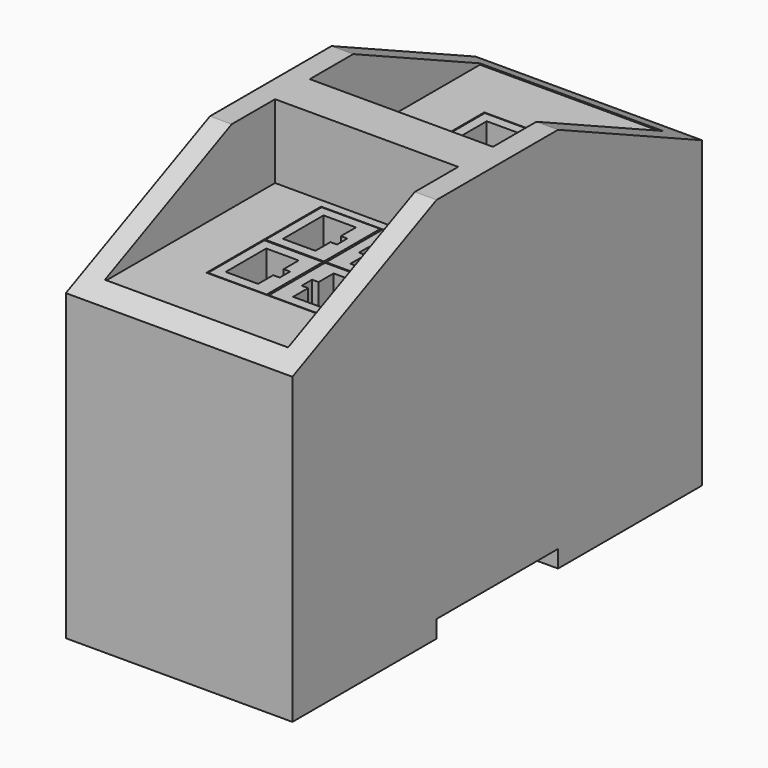
from build123d import *

# Parameters (mm, degrees)
F1_DEPTH = 26.1
F2_W     = 42.2
F2_H     = 49
F3_DEPTH = 17
F4_W     = 28
F4_H     = 33
F5_DEPTH = 25
F6_W     = 13.5
F6_H     = 16.2
F7_DEPTH = 25
F9_DEPTH = 12.32


with BuildPart() as f1:
    # F0 (on Right) → F1 (new body, symmetric)
    with BuildSketch(Plane.YZ):
        Polygon((-59, 66), (-59, -4), (-17.5, -4), (-17.5, 0), (17.5, 0), (17.5, -4), (59, -4), (59, 66), (17.5, 85), (-17.5, 85), align=None)
    extrude(amount=F1_DEPTH, both=True)

    # F2 (on face) → F3 (cut)
    with BuildSketch(Plane.XY.offset(85)):
        with Locations((0, -29.5)):
            Rectangle(F2_W, F2_H)
        with Locations((0, 29.5)):
            Rectangle(F2_W, F2_H)
    extrude(amount=-F3_DEPTH, mode=Mode.SUBTRACT)

    # F4 (on face) → F5 (cut)
    with BuildSketch(Plane.XY.offset(68)):
        with Locations((5.1, -23.5)):
            Rectangle(F4_W, F4_H)
        with Locations((5.1, 23.5)):
            Rectangle(F4_W, F4_H)
    extrude(amount=-F5_DEPTH, mode=Mode.SUBTRACT)


with BuildPart() as f7:
    # F6 (on face) → F7 (new body)
    with BuildSketch(Plane.XY.offset(43)):
        with Locations((12.1, -31.75)):
            Rectangle(F6_W, F6_H)
        with Locations((-1.9, -31.75)):
            Rectangle(F6_W, F6_H)
        with Locations((-1.9, -15.25)):
            Rectangle(F6_W, F6_H)
        with Locations((12.1, -15.25)):
            Rectangle(F6_W, F6_H)
        with Locations((-1.9, 15.25)):
            Rectangle(F6_W, F6_H)
        with Locations((12.1, 15.25)):
            Rectangle(F6_W, F6_H)
        with Locations((-1.9, 31.75)):
            Rectangle(F6_W, F6_H)
        with Locations((12.1, 31.75)):
            Rectangle(F6_W, F6_H)
    extrude(amount=F7_DEPTH)

    # F8 (on face) → F9 (cut)
    with BuildSketch(Plane.XY.offset(68)):
        Polygon((9.13, -37.59), (16.6, -37.59), (16.6, -25.91), (9.13, -25.91), (9.13, -30.25), (7.63, -30.25), (7.63, -33.25), (9.13, -33.25), align=None)
        Polygon((1.07, -37.59), (1.07, -33.25), (2.57, -33.25), (2.57, -30.25), (1.07, -30.25), (1.07, -25.91), (-6.4, -25.91), (-6.4, -37.59), align=None)
        Polygon((2.57, -13.75), (1.07, -13.75), (1.07, -9.41), (-6.4, -9.41), (-6.4, -21.09), (1.07, -21.09), (1.07, -16.75), (2.57, -16.75), align=None)
        Polygon((9.13, -9.41), (9.13, -13.75), (7.63, -13.75), (7.63, -16.75), (9.13, -16.75), (9.13, -21.09), (16.6, -21.09), (16.6, -9.41), align=None)
        Polygon((1.07, 21.09), (-6.4, 21.09), (-6.4, 9.41), (1.07, 9.41), (1.07, 13.75), (2.57, 13.75), (2.57, 16.75), (1.07, 16.75), align=None)
        Polygon((16.6, 21.09), (9.13, 21.09), (9.13, 16.75), (7.63, 16.75), (7.63, 13.75), (9.13, 13.75), (9.13, 9.41), (16.6, 9.41), align=None)
        Polygon((2.57, 33.25), (1.07, 33.25), (1.07, 37.59), (-6.4, 37.59), (-6.4, 25.91), (1.07, 25.91), (1.07, 30.25), (2.57, 30.25), align=None)
        Polygon((9.13, 37.59), (9.13, 33.25), (7.63, 33.25), (7.63, 30.25), (9.13, 30.25), (9.13, 25.91), (16.6, 25.91), (16.6, 37.59), align=None)
    extrude(amount=-F9_DEPTH, mode=Mode.SUBTRACT)


solid = Compound([f1.part, f7.part])
